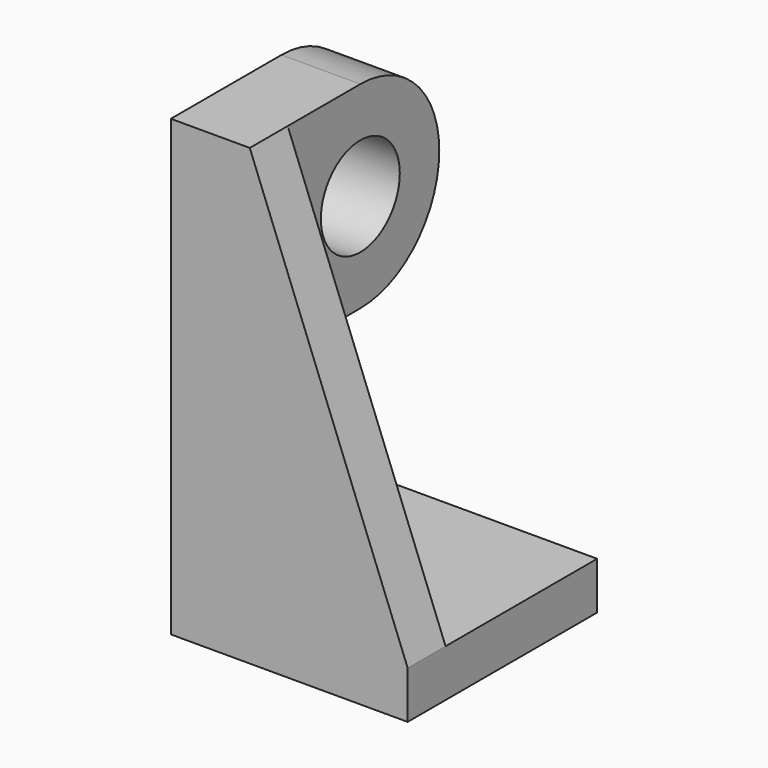
from build123d import *

# Parameters (mm, degrees)
F0_W      = 1524
F0_H      = 1524
F1_DEPTH  = 304.8
F2_W      = 1524
F2_H      = 304.8
F3_DEPTH  = 2616.2
F4_W      = 508
F4_H      = 1270
F5_DEPTH  = 584.2
F7_DEPTH  = 508
F8_R      = 317.5
F9_DEPTH  = 508
F11_DEPTH = 304.8


with BuildPart() as f1:
    # F0 (on Top) → F1 (new body)
    with BuildSketch(Plane.XY):
        with Locations((762, -762)):
            Rectangle(F0_W, F0_H)
    extrude(amount=F1_DEPTH)

    # F2 (on face) → F3 (join)
    with BuildSketch(Plane.XY.offset(304.8)):
        with Locations((762, -1371.6)):
            Rectangle(F2_W, F2_H)
    extrude(amount=F3_DEPTH)

    # F4 (on face) → F5 (join)
    with BuildSketch(Plane(origin=(0, -1219.2, 0), x_dir=(-1, 0, 0), z_dir=(0, 1, 0))):
        with Locations((-254, 2286)):
            Rectangle(F4_W, F4_H)
    extrude(amount=F5_DEPTH)

    # F6 (on face) → F7 (join)
    with BuildSketch(Plane.YZ.offset(508)):
        with BuildLine():
            ThreePointArc((-635, 1651), (-185.9871939465, 1836.9871939465), (0, 2286))
            ThreePointArc((0, 2286), (-185.9871939465, 2735.0128060535), (-635, 2921))
            Line((-635, 2921), (-635, 1651))
        make_face()
    extrude(amount=-F7_DEPTH)

    # F8 (on face) → F9 (cut)
    with BuildSketch(Plane.YZ.offset(508)):
        with Locations((-635, 2286)):
            Circle(F8_R)
    extrude(amount=-F9_DEPTH, mode=Mode.SUBTRACT)

    # F10 (on face) → F11 (cut)
    with BuildSketch(Plane(origin=(0, -1219.2, 0), x_dir=(-1, 0, 0), z_dir=(0, 1, 0))):
        Polygon((-1524, 304.8), (-508, 2921), (-1524, 2921), align=None)
    extrude(amount=-F11_DEPTH, mode=Mode.SUBTRACT)


solid = f1.part
